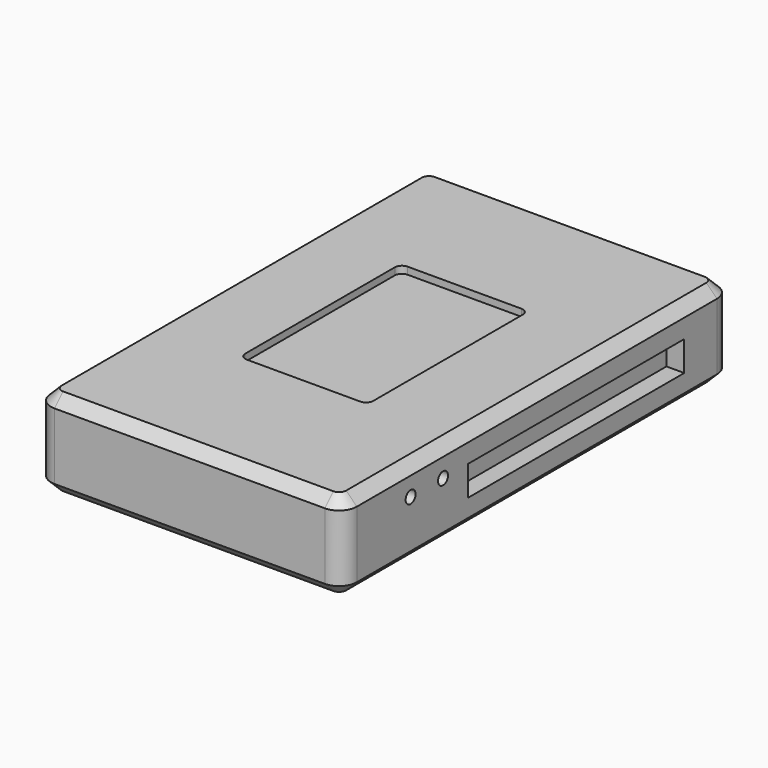
from build123d import *

# Parameters (mm, degrees)
F0_W      = 86
F0_H      = 136.6
F1_DEPTH  = 24.7
F3_R      = 5
F4_SIZE   = 3
F6_DEPTH  = 2
F7_W      = 47.5
F7_H      = 5
F8_DEPTH  = 5
F2_W      = 12
F2_H      = 4.5
F2_W_2    = 8.5
F2_H_2    = 7.3
F2_W_3    = 10
F2_H_3    = 13
F9_DEPTH  = 10
F10_W     = 76
F10_H     = 8.4
F10_R     = 1.75
F11_DEPTH = 5


with BuildPart() as f1:
    # F0 (on Top) → F1 (new body)
    with BuildSketch(Plane.XY):
        with Locations((-8.874781, 1.473147)):
            Rectangle(F0_W, F0_H)
    extrude(amount=F1_DEPTH)

    # F3
    f3_edges = [f1.edges().sort_by_distance(p)[0] for p in [
        (-51.874781, -66.826853, 12.35),
        (34.125219, -66.826853, 12.35),
        (34.125219, 69.773147, 12.35),
        (-51.874781, 69.773147, 12.35),
    ]]
    fillet(f3_edges, radius=F3_R)

    # F4
    f4_edges = [f1.edges().sort_by_distance(p)[0] for p in [
        (34.125219, 1.473147, 24.7),
        (32.660753, -65.362386, 24.7),
        (32.660753, 68.308681, 24.7),
        (-8.874781, -66.826853, 24.7),
        (-8.874781, 69.773147, 24.7),
        (-50.410315, -65.362386, 24.7),
        (-50.410315, 68.308681, 24.7),
        (-51.874781, 1.473147, 24.7),
        (34.125219, 1.473147, 0),
        (32.660753, -65.362386, 0),
        (32.660753, 68.308681, 0),
        (-8.874781, -66.826853, 0),
        (-8.874781, 69.773147, 0),
        (-50.410315, -65.362386, 0),
        (-50.410315, 68.308681, 0),
        (-51.874781, 1.473147, 0),
    ]]
    chamfer(f4_edges, length=F4_SIZE)

    # F5 (on face) → F6 (cut)
    with BuildSketch(Plane.XY.offset(24.7)):
        with BuildLine():
            Line((7.125219, 29.773147), (-24.874781, 29.773147))
            ThreePointArc((-24.874781, 29.773147), (-26.288994, 29.187361), (-26.874781, 27.773147))
            Line((-26.874781, 27.773147), (-26.874781, -24.826853))
            ThreePointArc((-26.874781, -24.826853), (-26.288994, -26.241066), (-24.874781, -26.826853))
            Line((-24.874781, -26.826853), (7.125219, -26.826853))
            ThreePointArc((7.125219, -26.826853), (8.539433, -26.241066), (9.125219, -24.826853))
            Line((9.125219, -24.826853), (9.125219, 27.773147))
            ThreePointArc((9.125219, 27.773147), (8.539433, 29.187361), (7.125219, 29.773147))
        make_face()
    extrude(amount=-F6_DEPTH, mode=Mode.SUBTRACT)

    # F7 (on face) → F8 (cut)
    with BuildSketch(Plane(origin=(-51.874781, 0, 0), x_dir=(0, -1, 0), z_dir=(-1, 0, 0))):
        with Locations((-29.123147, 12.9)):
            Rectangle(F7_W, F7_H)
        with Locations((26.176853, 12.9)):
            Rectangle(F7_W, F7_H)
    extrude(amount=-F8_DEPTH, mode=Mode.SUBTRACT)

    # F2 (on face) → F9 (cut)
    with BuildSketch(Plane(origin=(0, 69.773147, 0), x_dir=(-1, 0, 0), z_dir=(0, 1, 0))):
        with Locations((-12.125219, 13.4)):
            Rectangle(F2_W, F2_H)
        with Locations((4.874781, 14.8)):
            Rectangle(F2_W_2, F2_H_2)
        with Locations((19.774781, 14.15)):
            Rectangle(F2_W_3, F2_H_3)
    extrude(amount=-F9_DEPTH, mode=Mode.SUBTRACT)

    # F10 (on face) → F11 (cut)
    with BuildSketch(Plane.YZ.offset(34.125219)):
        with Locations((15.273147, 12.2)):
            Rectangle(F10_W, F10_H)
        with Locations((-42.926853, 16.4)):
            Circle(F10_R)
        with Locations((-31.526853, 16.4)):
            Circle(F10_R)
    extrude(amount=-F11_DEPTH, mode=Mode.SUBTRACT)


solid = f1.part
